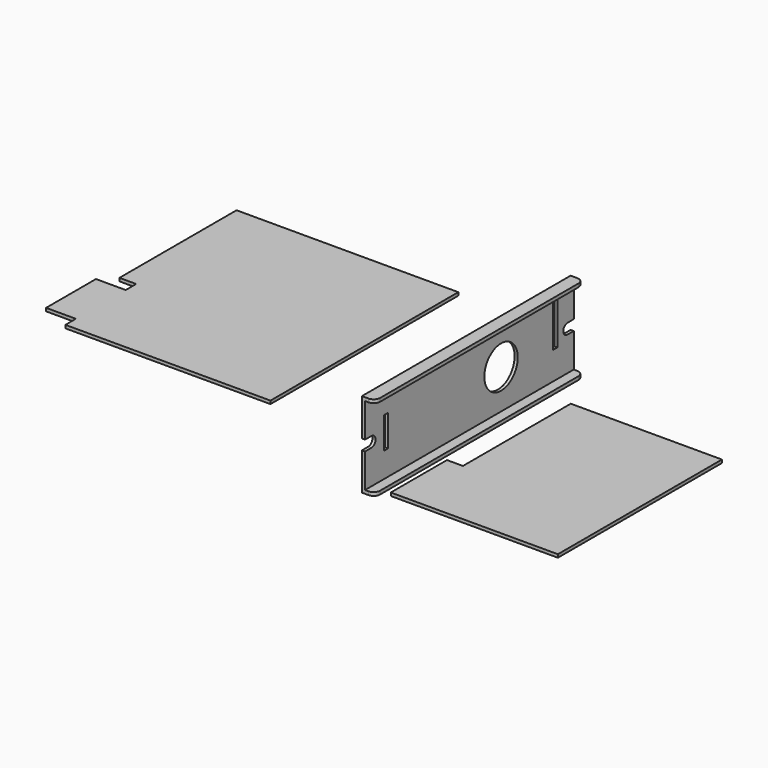
from build123d import *

# Parameters (mm, degrees)
F0_W     = 2.041602
F0_H     = 12.050721
F0_R     = 8
F0_W_2   = 2.245762
F0_H_2   = 17.864013
F1_DEPTH = 1.2
F2_W     = 100
F2_H     = 1.3
F3_DEPTH = 5
F4_W     = 100
F4_H     = 1.3
F5_DEPTH = 5
F6_R     = 2.5
F9_DEPTH = 1.2


with BuildPart() as f1:
    # F0 (on Right) → F1 (new body)
    with BuildSketch(Plane.YZ):
        with BuildLine():
            Line((87.956028, 8.417723), (-12.043972, 8.417723))
            Line((-12.043972, 8.417723), (-12.043972, -4.582277))
            Line((-12.043972, -4.582277), (-9.023586, -4.582277))
            ThreePointArc((-9.023586, -4.582277), (-7.023586, -6.582277), (-9.023586, -8.582277))
            Line((-9.023586, -8.582277), (-12.043972, -8.582277))
            Line((-12.043972, -8.582277), (-12.043972, -21.582277))
            Line((-12.043972, -21.582277), (87.956028, -21.582277))
            Line((87.956028, -21.582277), (87.956028, -8.582277))
            Line((87.956028, -8.582277), (84.935643, -8.582277))
            ThreePointArc((84.935643, -8.582277), (82.935643, -6.582277), (84.935643, -4.582277))
            Line((84.935643, -4.582277), (87.956028, -4.582277))
            Line((87.956028, -4.582277), (87.956028, 8.417723))
        make_face()
        with Locations((-2.042036, -6.02536)):
            Rectangle(F0_W, F0_H, mode=Mode.SUBTRACT)
        with Locations((53.114146, -6.582277)):
            Circle(F0_R, mode=Mode.SUBTRACT)
        with Locations((79.009544, -1.995832)):
            Rectangle(F0_W_2, F0_H_2, mode=Mode.SUBTRACT)
    extrude(amount=F1_DEPTH)

    # F2 (on face) → F3 (join)
    with BuildSketch(Plane(origin=(0, 0, 0), x_dir=(0, -1, 0), z_dir=(-1, 0, 0))):
        with Locations((-37.956028, 9.067723)):
            Rectangle(F2_W, F2_H)
    extrude(amount=-F3_DEPTH)

    # F4 (on face) → F5 (join)
    with BuildSketch(Plane(origin=(0, 0, 0), x_dir=(0, -1, 0), z_dir=(-1, 0, 0))):
        with Locations((-37.956028, -22.232277)):
            Rectangle(F4_W, F4_H)
    extrude(amount=-F5_DEPTH)

    # F6
    f6_edges = [f1.edges().sort_by_distance(p)[0] for p in [
        (5, -12.043972, 9.067723),
        (5, 87.956028, 9.067723),
        (5, 87.956028, -22.232277),
        (5, -12.043972, -22.232277),
    ]]
    fillet(f6_edges, radius=F6_R)


with BuildPart() as f9:
    # F7 (on Top) + F8 (on Top) → F9 (new body)
    with BuildSketch(Plane.XY):
        Polygon((-29.776221, 71.351834), (-114.776224, 71.351834), (-114.776224, 15.251834), (-108.376227, 15.251834), (-108.376227, 10.251834), (-119.776221, 10.251834), (-119.776221, -13.648166), (-108.376227, -13.648166), (-108.376227, -18.648166), (-29.776221, -18.648166), align=None)
    with BuildSketch(Plane.XY):
        Polygon((35.558051, -15.748166), (35.558051, -42.662875), (99.603191, -42.662875), (99.603191, 35.932115), (41.673616, 35.932115), (41.673616, -15.748166), align=None)
    extrude(amount=F9_DEPTH)


solid = Compound([f1.part, f9.part])
